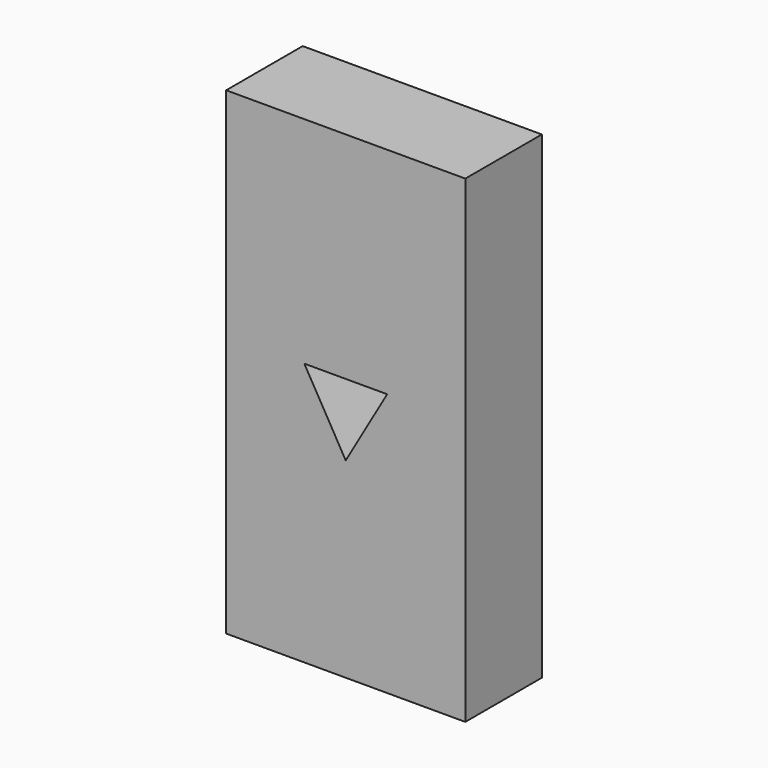
from build123d import *

# Parameters (mm, degrees)
F0_W     = 25
F0_H     = 50
F1_DEPTH = 5
F3_DEPTH = 10.001


with BuildPart() as f1:
    # F0 (on Front) → F1 (new body, symmetric)
    with BuildSketch(Plane.XZ):
        Rectangle(F0_W, F0_H)
    extrude(amount=F1_DEPTH, both=True)

    # F2 (on face) → F3 (cut, through all)
    with BuildSketch(Plane.XZ.offset(5)):
        Polygon((4.330127, 2.5), (-4.330127, 2.5), (0, -5), align=None)
    extrude(amount=-F3_DEPTH, mode=Mode.SUBTRACT)


solid = f1.part
